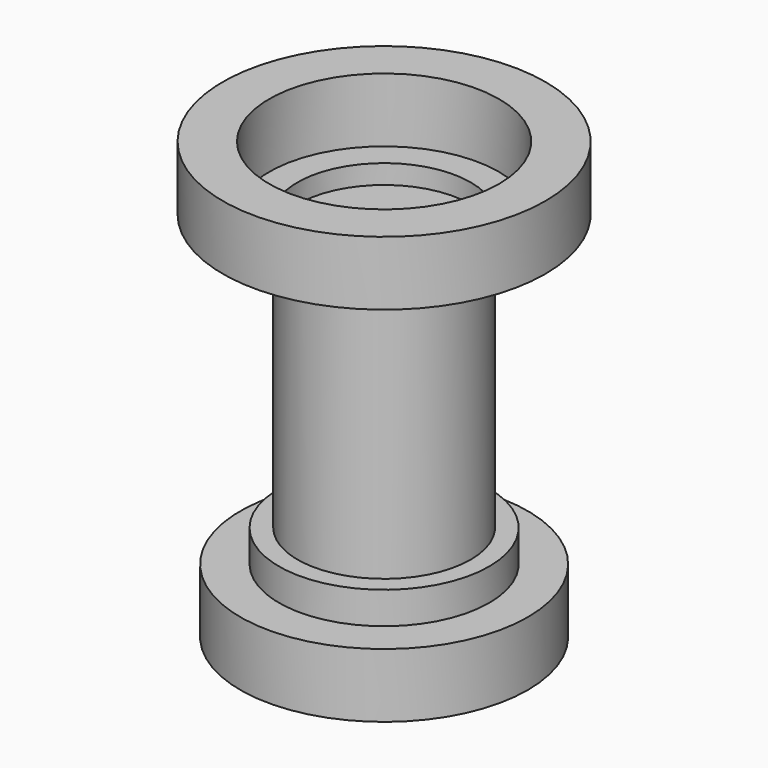
from build123d import *

# Parameters (mm, degrees)
F0_R     = 56.9105887924
F1_DEPTH = 25.4
F2_R     = 41.624583829
F3_DEPTH = 12.7
F4_R     = 34.2968724553
F5_DEPTH = 101.6
F6_R     = 45.5185449465
F6_R_2   = 34.2968724553
F7_DEPTH = 7.62
F8_R     = 63.8752045079
F8_R_2   = 45.5185449465
F9_DEPTH = 25.4


with BuildPart() as f1:
    # F0 (on Top) → F1 (new body)
    with BuildSketch(Plane.XY):
        Circle(F0_R)
    extrude(amount=F1_DEPTH)

    # F2 (on face) → F3 (join)
    with BuildSketch(Plane.XY.offset(25.4)):
        Circle(F2_R)
    extrude(amount=F3_DEPTH)

    # F4 (on face) → F5 (join)
    with BuildSketch(Plane.XY.offset(38.1)):
        Circle(F4_R)
    extrude(amount=F5_DEPTH)


with BuildPart() as f7:
    # F6 (on face) → F7 (new body)
    with BuildSketch(Plane.XY.offset(139.7)):
        Circle(F6_R)
        Circle(F6_R_2, mode=Mode.SUBTRACT)
    extrude(amount=F7_DEPTH)


with BuildPart() as f9:
    # F8 (on face) → F9 (new body)
    with BuildSketch(Plane.XY.offset(147.32)):
        Circle(F8_R)
        Circle(F8_R_2, mode=Mode.SUBTRACT)
    extrude(amount=F9_DEPTH)


solid = Compound([f1.part, f7.part, f9.part])
